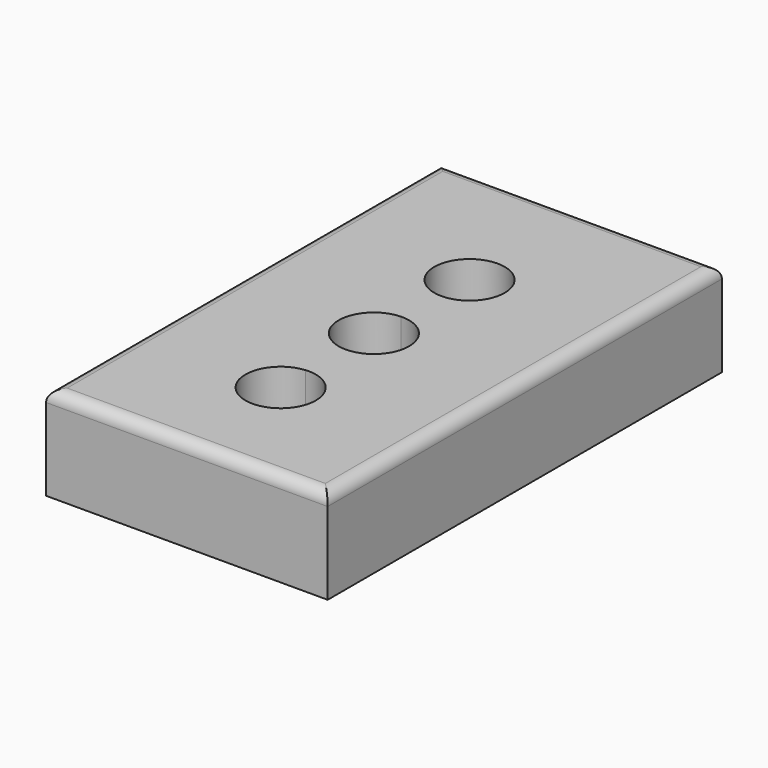
from build123d import *

# Parameters (mm, degrees)
F0_W     = 152.4
F0_H     = 266.7
F1_DEPTH = 50.8
F2_R     = 6.35


with BuildPart() as f1:
    # F0 (on Top) → F1 (new body)
    with BuildSketch(Plane.XY):
        with Locations((3.951112, 43.879506)):
            Rectangle(F0_W, F0_H)
        with BuildLine():
            ThreePointArc((23.245994, -26.343299), (-8.652188, -40.408388), (2.476784, -7.371035))
            ThreePointArc((2.476784, -7.371035), (17.044175, -12.27821), (23.245994, -26.343299))
        make_face(mode=Mode.SUBTRACT)
        with BuildLine():
            ThreePointArc((3.522208, 56.067), (17.268992, 50.643009), (23.001112, 37.021828))
            ThreePointArc((23.001112, 37.021828), (16.889747, 23.039903), (2.476784, 18.028965))
            ThreePointArc((2.476784, 18.028965), (-15.091698, 37.545195), (3.522208, 56.067))
        make_face(mode=Mode.SUBTRACT)
        with BuildLine():
            ThreePointArc((24.034084, 100.460825), (17.927302, 86.483142), (3.522208, 81.467))
            ThreePointArc((3.522208, 81.467), (-7.959133, 114.438508), (24.034084, 100.460825))
        make_face(mode=Mode.SUBTRACT)
    extrude(amount=F1_DEPTH)

    # F2
    f2_edges = [f1.edges().sort_by_distance(p)[0] for p in [
        (3.951112, -89.470494, 50.8),
        (80.151112, 43.879506, 50.8),
        (3.951112, 177.229506, 50.8),
        (-72.248888, 43.879506, 50.8),
    ]]
    fillet(f2_edges, radius=F2_R)


solid = f1.part
